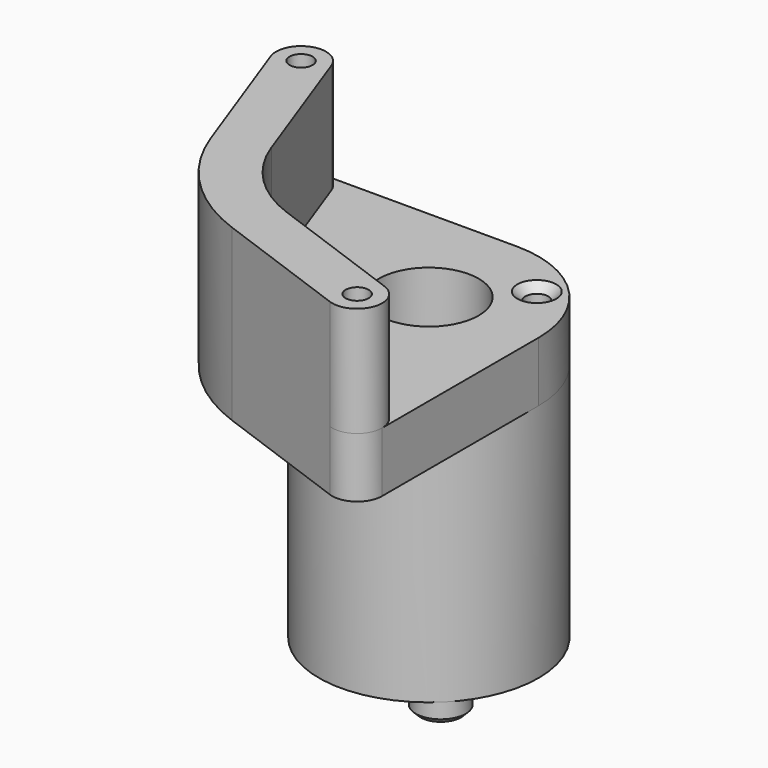
from build123d import *

# Parameters (mm, degrees)
F0_R      = 17.4625
F0_R_2    = 1.8288
F0_R_3    = 7.9375
F1_DEPTH  = 38.1
F2_R      = 1.8288
F2_R_2    = 7.9375
F3_DEPTH  = 9.525
F4_R      = 1.8288
F5_DEPTH  = 17.4625
F6_R      = 9.525
F7_DEPTH  = 7.14375
F8_R      = 3.96875
F9_DEPTH  = 3.175
F10_SIZE  = 0.762
F11_SIZE2 = 1.27
F11_SIZE  = 1.27


with BuildPart() as f1:
    # F0 (on Top) → F1 (new body)
    with BuildSketch(Plane.XY):
        Circle(F0_R)
        with Locations((-9.5415221286, -9.5415221286)):
            Circle(F0_R_2, mode=Mode.SUBTRACT)
        Circle(F0_R_3, mode=Mode.SUBTRACT)
        with Locations((9.5415221286, 9.5415221286)):
            Circle(F0_R_2, mode=Mode.SUBTRACT)
    extrude(amount=F1_DEPTH)

    # F2 (on face) → F3 (join)
    with BuildSketch(Plane.XY.offset(38.1)):
        with BuildLine():
            Line((17.4625, -31.0967476626), (17.4625, 0))
            ThreePointArc((17.4625, 0), (-12.3478521665, -12.3478521665), (0, 17.4625))
            Line((0, 17.4625), (-31.0967476626, 17.4625))
            ThreePointArc((-31.0967476626, 17.4625), (-34.3477573384, 15.7701314818), (-34.8261527514, 12.1363575562))
            Line((-34.8261527514, 12.1363575562), (-26.851716639, -9.7732255955))
            ThreePointArc((-26.851716639, -9.7732255955), (-20.2055762724, -20.2055762724), (-9.7732255955, -26.851716639))
            Line((-9.7732255955, -26.851716639), (12.1363575562, -34.8261527514))
            ThreePointArc((12.1363575562, -34.8261527514), (15.7701314818, -34.3477573384), (17.4625, -31.0967476626))
        make_face()
        with Locations((13.49375, -31.0967476626)):
            Circle(F2_R, mode=Mode.SUBTRACT)
        with Locations((-31.0967476626, 13.49375)):
            Circle(F2_R, mode=Mode.SUBTRACT)
        with BuildLine():
            ThreePointArc((0, 17.4625), (-12.3478521665, -12.3478521665), (17.4625, 0))
            ThreePointArc((17.4625, 0), (12.3478521665, 12.3478521665), (0, 17.4625))
        make_face()
        with Locations((-9.5415221286, -9.5415221286)):
            Circle(F2_R, mode=Mode.SUBTRACT)
        Circle(F2_R_2, mode=Mode.SUBTRACT)
        with Locations((9.5415221286, 9.5415221286)):
            Circle(F2_R, mode=Mode.SUBTRACT)
    extrude(amount=F3_DEPTH)

    # F4 (on face) → F5 (join)
    with BuildSketch(Plane.XY.offset(47.625)):
        with BuildLine():
            Line((-34.8261527514, 12.1363575562), (-26.851716639, -9.7732255955))
            ThreePointArc((-26.851716639, -9.7732255955), (-20.2055762724, -20.2055762724), (-9.7732255955, -26.851716639))
            Line((-9.7732255955, -26.851716639), (12.1363575562, -34.8261527514))
            ThreePointArc((12.1363575562, -34.8261527514), (17.2231550887, -32.4541401064), (14.8511424438, -27.3673425739))
            Line((14.8511424438, -27.3673425739), (-7.0584407079, -19.3929064615))
            ThreePointArc((-7.0584407079, -19.3929064615), (-14.5929161967, -14.5929161967), (-19.3929064615, -7.0584407079))
            Line((-19.3929064615, -7.0584407079), (-27.3673425739, 14.8511424438))
            ThreePointArc((-27.3673425739, 14.8511424438), (-32.4541401064, 17.2231550887), (-34.8261527514, 12.1363575562))
        make_face()
        with Locations((13.49375, -31.0967476626)):
            Circle(F4_R, mode=Mode.SUBTRACT)
        with Locations((-31.0967476626, 13.49375)):
            Circle(F4_R, mode=Mode.SUBTRACT)
    extrude(amount=F5_DEPTH)

    # F6 (on face) → F7 (cut)
    with BuildSketch(Plane(origin=(0, 0, 0), x_dir=(1, 0, 0), z_dir=(0, 0, -1))):
        Circle(F6_R)
    extrude(amount=-F7_DEPTH, mode=Mode.SUBTRACT)

    # F8 (on face) → F9 (join)
    with BuildSketch(Plane(origin=(0, 0, 0), x_dir=(1, 0, 0), z_dir=(0, 0, -1))):
        with Locations((-9.5415221286, -9.5415221286)):
            Circle(F8_R)
        with Locations((9.5415221286, 9.5415221286)):
            Circle(F8_R)
    extrude(amount=F9_DEPTH)

    # F10
    f10_edges = [f1.edges().sort_by_distance(p)[0] for p in [
        (5.572772, -9.541522, -3.175),
        (-13.510272, 9.541522, -3.175),
    ]]
    chamfer(f10_edges, length=F10_SIZE)

    # F11
    f11_edges = [f1.edges().sort_by_distance(p)[0] for p in [
        (7.712722, 9.541522, 47.625),
        (-11.370322, -9.541522, 47.625),
    ]]
    chamfer(f11_edges, length=F11_SIZE, length2=F11_SIZE2)


solid = f1.part
